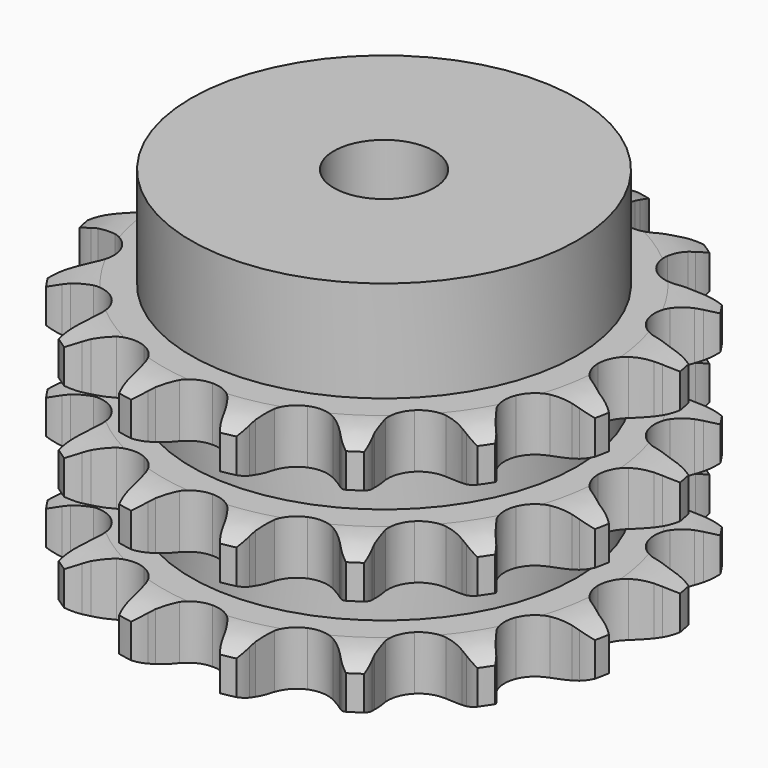
from build123d import *

# Parameters (mm, degrees)
PAD_DEPTH         = 49.8
SKETCH001_R       = 38.5
PAD001_DEPTH      = 70
SKETCH002_R       = 10
POCKET_DEPTH      = 0.001
POCKET_DEPTH_BACK = 70.001


with BuildPart() as part:
    # Sprocket → Pad (new body)
    with BuildSketch(Plane.XY):
        with BuildLine():
            ThreePointArc((-10.675506, 53.669391), (-8.778269, 51.876827), (-7.406396, 49.656297))
            Line((-7.406396, 49.656297), (-6.838144, 48.394825))
            ThreePointArc((-6.838144, 48.394825), (-5.906426, 46.633258), (-4.759849, 45.003356))
            ThreePointArc((-4.759849, 45.003356), (-2.63954, 43.320559), (0, 42.720264))
            ThreePointArc((0, 42.720264), (2.63954, 43.320559), (4.759849, 45.003356))
            ThreePointArc((4.759849, 45.003356), (5.906426, 46.633258), (6.838144, 48.394825))
            Line((6.838144, 48.394825), (7.406396, 49.656297))
            ThreePointArc((7.406396, 49.656297), (8.778269, 51.876827), (10.675506, 53.669391))
            ThreePointArc((10.675506, 53.669391), (11.74234, 51.287237), (12.160025, 48.710741))
            Line((12.160025, 48.710741), (12.202276, 47.327833))
            ThreePointArc((12.202276, 47.327833), (12.388949, 45.343804), (12.824511, 43.399195))
            ThreePointArc((12.824511, 43.399195), (14.139443, 41.033085), (16.348337, 39.468378))
            ThreePointArc((16.348337, 39.468378), (19.016677, 39.012869), (21.619566, 39.756164))
            Line((21.619566, 39.756164), (24.837519, 42.094144))
            ThreePointArc((24.837519, 42.094144), (25.330981, 42.579202), (25.845259, 43.042131))
            ThreePointArc((25.845259, 43.042131), (27.962465, 44.568641), (30.401268, 45.498713))
            ThreePointArc((30.401268, 45.498713), (30.475283, 42.88963), (29.875191, 40.349417))
            Line((29.875191, 40.349417), (29.385011, 39.055607))
            ThreePointArc((29.385011, 39.055607), (28.798219, 37.151167), (28.456457, 35.1879))
            ThreePointArc((28.456457, 35.1879), (28.765824, 32.498697), (30.207789, 30.207789))
            ThreePointArc((30.207789, 30.207789), (32.498697, 28.765824), (35.1879, 28.456457))
            Line((35.1879, 28.456457), (39.055607, 29.385011))
            ThreePointArc((39.055607, 29.385011), (39.69713, 29.644306), (40.349417, 29.875191))
            ThreePointArc((40.349417, 29.875191), (42.88963, 30.475283), (45.498713, 30.401268))
            ThreePointArc((45.498713, 30.401268), (44.568641, 27.962465), (43.042131, 25.845259))
            Line((43.042131, 25.845259), (42.094144, 24.837519))
            ThreePointArc((42.094144, 24.837519), (40.823221, 23.302601), (39.756164, 21.619566))
            ThreePointArc((39.756164, 21.619566), (39.012869, 19.016677), (39.468378, 16.348337))
            ThreePointArc((39.468378, 16.348337), (41.033085, 14.139443), (43.399195, 12.824511))
            Line((43.399195, 12.824511), (47.327833, 12.202276))
            ThreePointArc((47.327833, 12.202276), (48.019751, 12.196334), (48.710741, 12.160025))
            ThreePointArc((48.710741, 12.160025), (51.287237, 11.74234), (53.669391, 10.675506))
            ThreePointArc((53.669391, 10.675506), (51.876827, 8.778269), (49.656297, 7.406396))
            Line((49.656297, 7.406396), (48.394825, 6.838144))
            ThreePointArc((48.394825, 6.838144), (46.633258, 5.906426), (45.003356, 4.759849))
            ThreePointArc((45.003356, 4.759849), (43.320559, 2.63954), (42.720264, 0))
            ThreePointArc((42.720264, 0), (43.320559, -2.63954), (45.003356, -4.759849))
            Line((45.003356, -4.759849), (48.394825, -6.838144))
            ThreePointArc((48.394825, -6.838144), (49.0318, -7.10842), (49.656297, -7.406396))
            ThreePointArc((49.656297, -7.406396), (51.876827, -8.778269), (53.669391, -10.675506))
            ThreePointArc((53.669391, -10.675506), (51.287237, -11.74234), (48.710741, -12.160025))
            Line((48.710741, -12.160025), (47.327833, -12.202276))
            ThreePointArc((47.327833, -12.202276), (45.343804, -12.388949), (43.399195, -12.824511))
            ThreePointArc((43.399195, -12.824511), (41.033085, -14.139443), (39.468378, -16.348337))
            ThreePointArc((39.468378, -16.348337), (39.012869, -19.016677), (39.756164, -21.619566))
            Line((39.756164, -21.619566), (42.094144, -24.837519))
            ThreePointArc((42.094144, -24.837519), (42.579202, -25.330981), (43.042131, -25.845259))
            ThreePointArc((43.042131, -25.845259), (44.568641, -27.962465), (45.498713, -30.401268))
            ThreePointArc((45.498713, -30.401268), (42.88963, -30.475283), (40.349417, -29.875191))
            Line((40.349417, -29.875191), (39.055607, -29.385011))
            ThreePointArc((39.055607, -29.385011), (37.151167, -28.798219), (35.1879, -28.456457))
            ThreePointArc((35.1879, -28.456457), (32.498697, -28.765824), (30.207789, -30.207789))
            ThreePointArc((30.207789, -30.207789), (28.765824, -32.498697), (28.456457, -35.1879))
            Line((28.456457, -35.1879), (29.385011, -39.055607))
            ThreePointArc((29.385011, -39.055607), (29.644306, -39.69713), (29.875191, -40.349417))
            ThreePointArc((29.875191, -40.349417), (30.475283, -42.88963), (30.401268, -45.498713))
            ThreePointArc((30.401268, -45.498713), (27.962465, -44.568641), (25.845259, -43.042131))
            Line((25.845259, -43.042131), (24.837519, -42.094144))
            ThreePointArc((24.837519, -42.094144), (23.302601, -40.823221), (21.619566, -39.756164))
            ThreePointArc((21.619566, -39.756164), (19.016677, -39.012869), (16.348337, -39.468378))
            ThreePointArc((16.348337, -39.468378), (14.139443, -41.033085), (12.824511, -43.399195))
            Line((12.824511, -43.399195), (12.202276, -47.327833))
            ThreePointArc((12.202276, -47.327833), (12.196334, -48.019751), (12.160025, -48.710741))
            ThreePointArc((12.160025, -48.710741), (11.74234, -51.287237), (10.675506, -53.669391))
            ThreePointArc((10.675506, -53.669391), (8.778269, -51.876827), (7.406396, -49.656297))
            Line((7.406396, -49.656297), (6.838144, -48.394825))
            ThreePointArc((6.838144, -48.394825), (5.906426, -46.633258), (4.759849, -45.003356))
            ThreePointArc((4.759849, -45.003356), (2.63954, -43.320559), (0, -42.720264))
            ThreePointArc((0, -42.720264), (-2.63954, -43.320559), (-4.759849, -45.003356))
            Line((-4.759849, -45.003356), (-6.838144, -48.394825))
            ThreePointArc((-6.838144, -48.394825), (-7.10842, -49.0318), (-7.406396, -49.656297))
            ThreePointArc((-7.406396, -49.656297), (-8.778269, -51.876827), (-10.675506, -53.669391))
            ThreePointArc((-10.675506, -53.669391), (-11.74234, -51.287237), (-12.160025, -48.710741))
            Line((-12.160025, -48.710741), (-12.202276, -47.327833))
            ThreePointArc((-12.202276, -47.327833), (-12.388949, -45.343804), (-12.824511, -43.399195))
            ThreePointArc((-12.824511, -43.399195), (-14.139443, -41.033085), (-16.348337, -39.468378))
            ThreePointArc((-16.348337, -39.468378), (-19.016677, -39.012869), (-21.619566, -39.756164))
            Line((-21.619566, -39.756164), (-24.837519, -42.094144))
            ThreePointArc((-24.837519, -42.094144), (-25.330981, -42.579202), (-25.845259, -43.042131))
            ThreePointArc((-25.845259, -43.042131), (-27.962465, -44.568641), (-30.401268, -45.498713))
            ThreePointArc((-30.401268, -45.498713), (-30.475283, -42.88963), (-29.875191, -40.349417))
            Line((-29.875191, -40.349417), (-29.385011, -39.055607))
            ThreePointArc((-29.385011, -39.055607), (-28.798219, -37.151167), (-28.456457, -35.1879))
            ThreePointArc((-28.456457, -35.1879), (-28.765824, -32.498697), (-30.207789, -30.207789))
            ThreePointArc((-30.207789, -30.207789), (-32.498697, -28.765824), (-35.1879, -28.456457))
            Line((-35.1879, -28.456457), (-39.055607, -29.385011))
            ThreePointArc((-39.055607, -29.385011), (-39.69713, -29.644306), (-40.349417, -29.875191))
            ThreePointArc((-40.349417, -29.875191), (-42.88963, -30.475283), (-45.498713, -30.401268))
            ThreePointArc((-45.498713, -30.401268), (-44.568641, -27.962465), (-43.042131, -25.845259))
            Line((-43.042131, -25.845259), (-42.094144, -24.837519))
            ThreePointArc((-42.094144, -24.837519), (-40.823221, -23.302601), (-39.756164, -21.619566))
            ThreePointArc((-39.756164, -21.619566), (-39.012869, -19.016677), (-39.468378, -16.348337))
            ThreePointArc((-39.468378, -16.348337), (-41.033085, -14.139443), (-43.399195, -12.824511))
            Line((-43.399195, -12.824511), (-47.327833, -12.202276))
            ThreePointArc((-47.327833, -12.202276), (-48.019751, -12.196334), (-48.710741, -12.160025))
            ThreePointArc((-48.710741, -12.160025), (-51.287237, -11.74234), (-53.669391, -10.675506))
            ThreePointArc((-53.669391, -10.675506), (-51.876827, -8.778269), (-49.656297, -7.406396))
            Line((-49.656297, -7.406396), (-48.394825, -6.838144))
            ThreePointArc((-48.394825, -6.838144), (-46.633258, -5.906426), (-45.003356, -4.759849))
            ThreePointArc((-45.003356, -4.759849), (-43.320559, -2.63954), (-42.720264, 0))
            ThreePointArc((-42.720264, 0), (-43.320559, 2.63954), (-45.003356, 4.759849))
            Line((-45.003356, 4.759849), (-48.394825, 6.838144))
            ThreePointArc((-48.394825, 6.838144), (-49.0318, 7.10842), (-49.656297, 7.406396))
            ThreePointArc((-49.656297, 7.406396), (-51.876827, 8.778269), (-53.669391, 10.675506))
            ThreePointArc((-53.669391, 10.675506), (-51.287237, 11.74234), (-48.710741, 12.160025))
            Line((-48.710741, 12.160025), (-47.327833, 12.202276))
            ThreePointArc((-47.327833, 12.202276), (-45.343804, 12.388949), (-43.399195, 12.824511))
            ThreePointArc((-43.399195, 12.824511), (-41.033085, 14.139443), (-39.468378, 16.348337))
            ThreePointArc((-39.468378, 16.348337), (-39.012869, 19.016677), (-39.756164, 21.619566))
            Line((-39.756164, 21.619566), (-42.094144, 24.837519))
            ThreePointArc((-42.094144, 24.837519), (-42.579202, 25.330981), (-43.042131, 25.845259))
            ThreePointArc((-43.042131, 25.845259), (-44.568641, 27.962465), (-45.498713, 30.401268))
            ThreePointArc((-45.498713, 30.401268), (-42.88963, 30.475283), (-40.349417, 29.875191))
            Line((-40.349417, 29.875191), (-39.055607, 29.385011))
            ThreePointArc((-39.055607, 29.385011), (-37.151167, 28.798219), (-35.1879, 28.456457))
            ThreePointArc((-35.1879, 28.456457), (-32.498697, 28.765824), (-30.207789, 30.207789))
            ThreePointArc((-30.207789, 30.207789), (-28.765824, 32.498697), (-28.456457, 35.1879))
            Line((-28.456457, 35.1879), (-29.385011, 39.055607))
            ThreePointArc((-29.385011, 39.055607), (-29.644306, 39.69713), (-29.875191, 40.349417))
            ThreePointArc((-29.875191, 40.349417), (-30.475283, 42.88963), (-30.401268, 45.498713))
            ThreePointArc((-30.401268, 45.498713), (-27.962465, 44.568641), (-25.845259, 43.042131))
            Line((-25.845259, 43.042131), (-24.837519, 42.094144))
            ThreePointArc((-24.837519, 42.094144), (-23.302601, 40.823221), (-21.619566, 39.756164))
            ThreePointArc((-21.619566, 39.756164), (-19.016677, 39.012869), (-16.348337, 39.468378))
            ThreePointArc((-16.348337, 39.468378), (-14.139443, 41.033085), (-12.824511, 43.399195))
            Line((-12.824511, 43.399195), (-12.202276, 47.327833))
            ThreePointArc((-12.202276, 47.327833), (-12.196334, 48.019751), (-12.160025, 48.710741))
            ThreePointArc((-12.160025, 48.710741), (-11.74234, 51.287237), (-10.675506, 53.669391))
        make_face()
    extrude(amount=PAD_DEPTH)

    # Sketch → Groove (revolve, cut)
    with BuildSketch(Plane.XZ):
        with BuildLine():
            ThreePointArc((44.264719, 0), (48.623618, 0.506758), (52.75, 2))
            Line((52.75, 2), (52.75, 8.8))
            ThreePointArc((52.75, 8.8), (48.623618, 10.293242), (44.264719, 10.8))
            Line((38.5, 10.8), (44.264719, 10.8))
            Line((38.5, 10.8), (38.5, 19.5))
            Line((38.5, 19.5), (44.264719, 19.5))
            ThreePointArc((44.264719, 19.5), (48.623618, 20.006758), (52.75, 21.5))
            Line((52.75, 28.3), (52.75, 21.5))
            ThreePointArc((52.75, 28.3), (48.623618, 29.793242), (44.264719, 30.3))
            Line((38.5, 30.3), (44.264719, 30.3))
            Line((38.5, 39), (38.5, 30.3))
            Line((44.264719, 39), (38.5, 39))
            ThreePointArc((44.264719, 39), (48.623618, 39.506758), (52.75, 41))
            Line((52.75, 41), (52.75, 47.8))
            ThreePointArc((52.75, 47.8), (48.623618, 49.293242), (44.264719, 49.8))
            Line((44.264719, 49.8), (62.75, 49.8))
            Line((62.75, 49.8), (62.75, 0))
            Line((44.264719, 0), (62.75, 0))
        make_face()
    revolve(axis=Axis((0, 0, 0), (0, 0, 1)), mode=Mode.SUBTRACT)

    # Sketch001 → Pad001 (join)
    with BuildSketch(Plane.XY):
        Circle(SKETCH001_R)
    extrude(amount=PAD001_DEPTH)

    # Sketch002 → Pocket (cut, two sides)
    with BuildSketch(Plane.XY) as pocket_sk:
        Circle(SKETCH002_R)
    extrude(amount=-POCKET_DEPTH, mode=Mode.SUBTRACT)
    extrude(pocket_sk.sketch, amount=POCKET_DEPTH_BACK, mode=Mode.SUBTRACT)


solid = part.part
